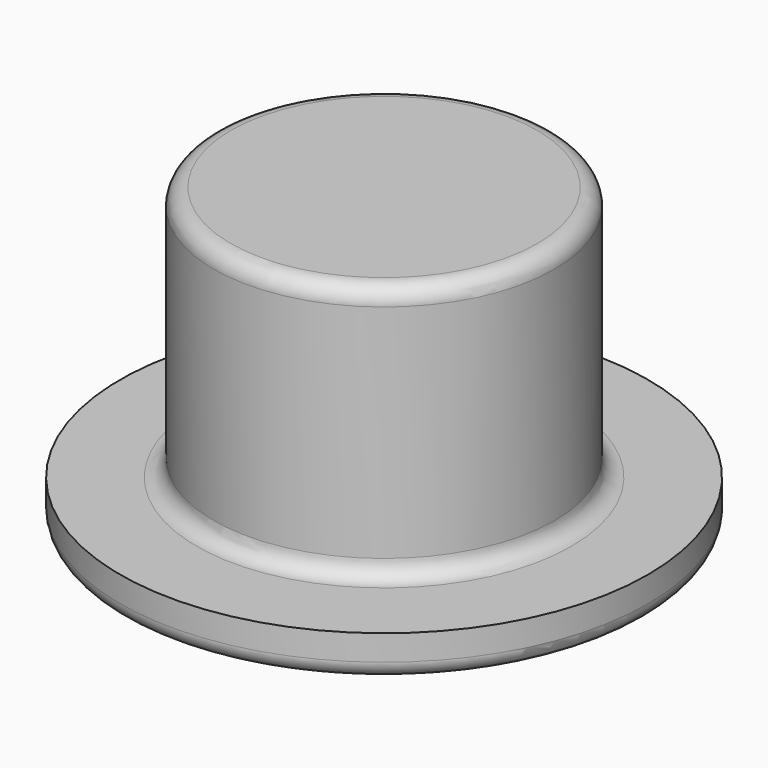
from build123d import *

# Parameters (mm, degrees)
F0_R     = 31
F1_DEPTH = 5
F2_R     = 20
F3_DEPTH = 30
F4_R     = 2


with BuildPart() as f1:
    # F0 (on Top) → F1 (new body)
    with BuildSketch(Plane.XY):
        Circle(F0_R)
    extrude(amount=F1_DEPTH)

    # F2 (on face) → F3 (join)
    with BuildSketch(Plane.XY.offset(5)):
        Circle(F2_R)
    extrude(amount=F3_DEPTH)

    # F4
    f4_edges = [f1.edges().sort_by_distance(p)[0] for p in [
        (-20, 0, 35),
        (-20, 0, 5),
        (-31, 0, 0),
    ]]
    fillet(f4_edges, radius=F4_R)


solid = f1.part
